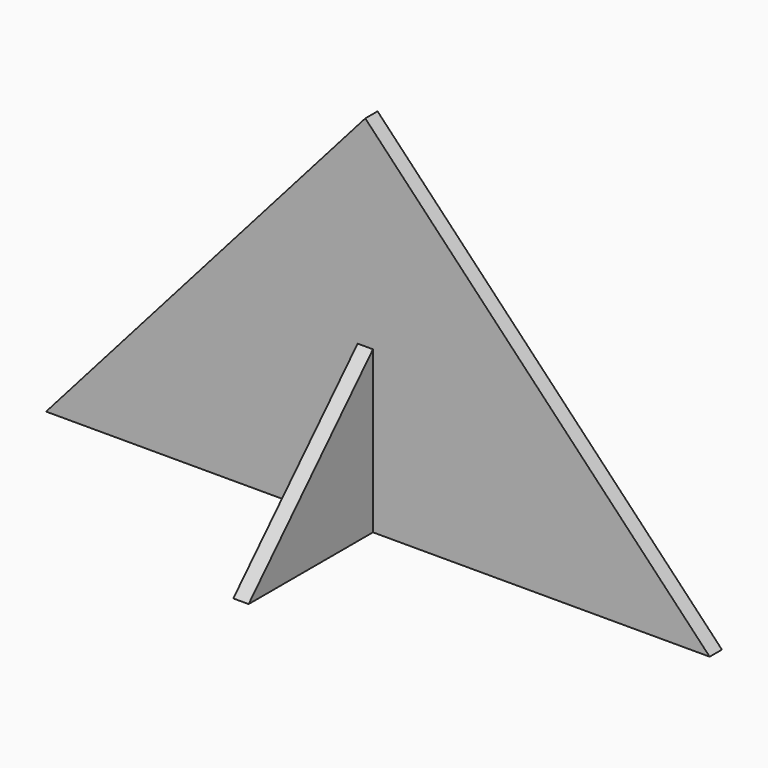
from build123d import *

# Parameters (mm, degrees)
F1_DEPTH = 0.635
F3_DEPTH = 0.635


with BuildPart() as f1:
    # F0 (on Front) → F1 (new body, symmetric)
    with BuildSketch(Plane.XZ):
        Polygon((0, 30), (-26.457513, 0), (28.542487, 0), align=None)
    extrude(amount=F1_DEPTH, both=True)

    # F2 (on Right) → F3 (join, symmetric)
    with BuildSketch(Plane.YZ):
        Polygon((0, 0), (13.484021, 0), (-0.015979, 13.999991), align=None)
        Polygon((-13.515979, 0), (0, 0), (-0.015979, 13.999991), align=None)
    extrude(amount=F3_DEPTH, both=True)


solid = f1.part
